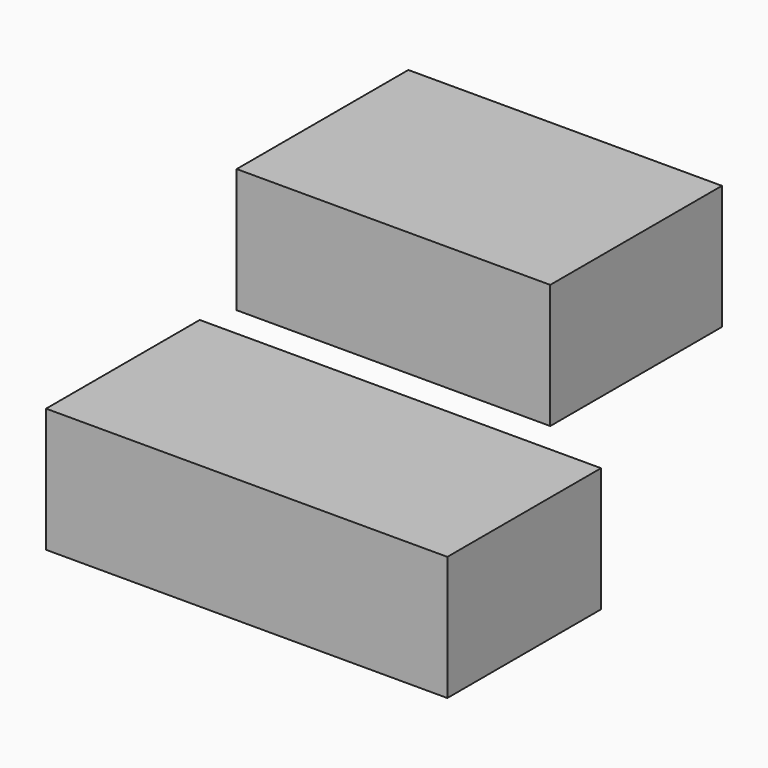
from build123d import *

# Parameters (mm, degrees)
F0_W     = 86.5178564563
F0_H     = 59.2057183385
F1_DEPTH = 34.29
F0_W_2   = 81.3378058374
F0_H_2   = 48.6446656287


with BuildPart() as f1:
    # F0 (on Top) → F1 (new body)
    with BuildSketch(Plane.XY):
        with Locations((-51.0069648735, 89.5499400795)):
            Rectangle(F0_W, F0_H)
    extrude(amount=F1_DEPTH)


with BuildPart() as f1b:
    # F0 (on Top) → F1, piece 2 (new body)
    with BuildSketch(Plane.XY):
        Polygon((54.2150065303, 0), (24.842992425, 0), (24.842992425, -48.6446656287), (-56.4948134124, -48.6446656287), (-56.4948134124, -52.9914014041), (54.2150065303, -52.9914014041), align=None)
        with Locations((-15.8259104937, -24.3223328143)):
            Rectangle(F0_W_2, F0_H_2)
    extrude(amount=F1_DEPTH)


solid = Compound([f1.part, f1b.part])
